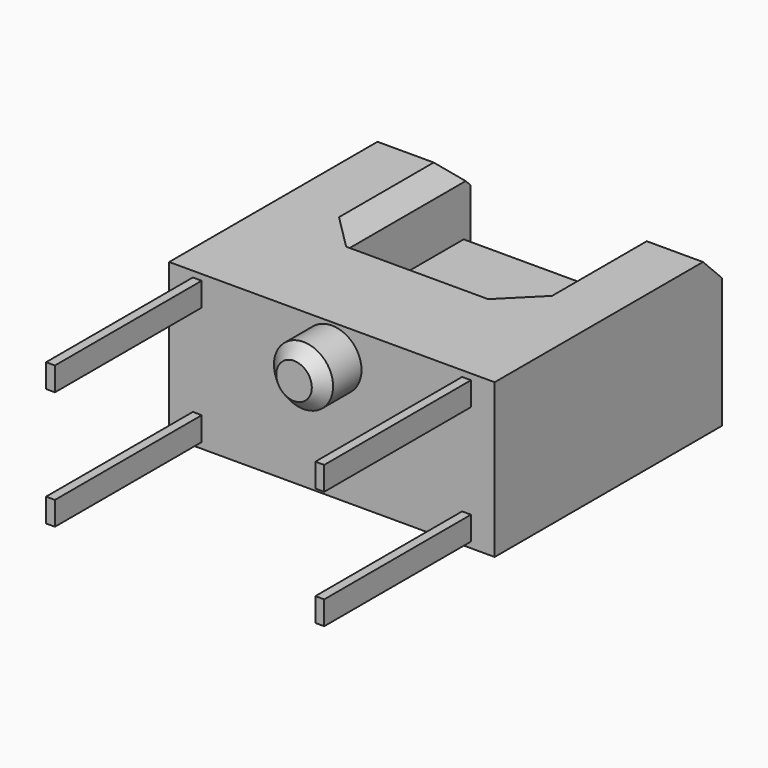
from build123d import *

# Parameters (mm, degrees)
PAD003_DEPTH    = 1.3
SKETCH008_R     = 0.5
PAD004_DEPTH    = 0.8
SKETCH009_W     = 1.21537
SKETCH009_H     = 0.3
PAD005_DEPTH    = 3
CHAMFER001_SIZE = 0.3
CHAMFER002_SIZE = 0.3
CHAMFER003_SIZE = 0.2
CHAMFER004_SIZE = 0.4
SKETCH010_W     = 0.15
SKETCH010_H     = 0.4
PAD006_DEPTH    = 3.1


with BuildPart() as part:
    # Sketch007 → Pad003 (new body, symmetric)
    with BuildSketch(Plane.XY):
        Polygon((-2.75, 0), (2.75, 0), (2.75, 4.8), (1.5, 4.8), (1.5, 1.8), (-1.5, 1.8), (-1.5, 4.8), (-2.75, 4.8), align=None)
    extrude(amount=PAD003_DEPTH, both=True)

    # Sketch008 (on Face1 of Pad003) → Pad004 (join)
    with BuildSketch(Plane.XZ):
        with Locations((0, 0.75)):
            Circle(SKETCH008_R)
    extrude(amount=PAD004_DEPTH)

    # Sketch009 (on Face11 of Pad004) → Pad005 (join)
    with BuildSketch(Plane.YZ.offset(-1.5)):
        with Locations((4.05, 0)):
            Rectangle(SKETCH009_W, SKETCH009_H)
    extrude(amount=PAD005_DEPTH)

    # Chamfer001
    chamfer001_edges = [part.edges().sort_by_distance(p)[0] for p in [
        (-1.5, 1.8, 0),
        (1.5, 1.8, 0),
    ]]
    chamfer(chamfer001_edges, length=CHAMFER001_SIZE)

    # Chamfer002
    chamfer002_edges = [part.edges().sort_by_distance(p)[0] for p in [
        (-1.5, 3.45, 1.3),
        (-1.5, 3.45, -1.3),
        (1.5, 3.45, 1.3),
        (1.5, 3.45, -1.3),
    ]]
    chamfer(chamfer002_edges, length=CHAMFER002_SIZE)

    # Chamfer003
    chamfer003_edges = [part.edges().sort_by_distance(p)[0] for p in [
        (-0.5, -0.8, 0.75),
    ]]
    chamfer(chamfer003_edges, length=CHAMFER003_SIZE)

    # Chamfer004
    chamfer004_edges = [part.edges().sort_by_distance(p)[0] for p in [
        (2.275, 4.8, 1.3),
        (-2.275, 4.8, 1.3),
    ]]
    chamfer(chamfer004_edges, length=CHAMFER004_SIZE)

    # Sketch010 (on Face6 of Chamfer004) → Pad006 (join)
    with BuildSketch(Plane.XZ):
        with Locations((-2.275, 1)):
            Rectangle(SKETCH010_W, SKETCH010_H)
        with Locations((-2.275, -1)):
            Rectangle(SKETCH010_W, SKETCH010_H)
        with Locations((2.275, 1)):
            Rectangle(SKETCH010_W, SKETCH010_H)
        with Locations((2.275, -1)):
            Rectangle(SKETCH010_W, SKETCH010_H)
    extrude(amount=PAD006_DEPTH)


solid = part.part
